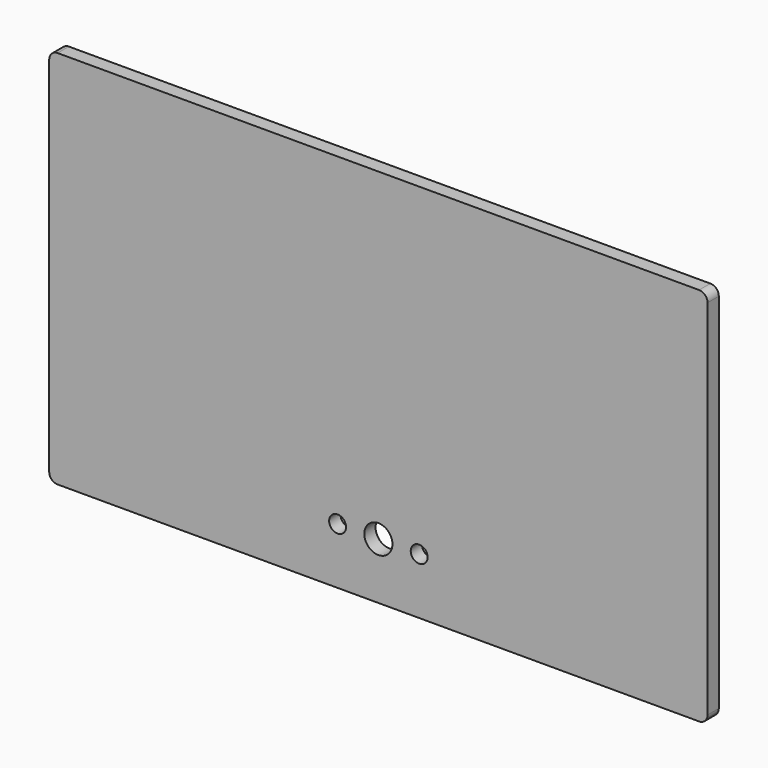
from build123d import *

# Parameters (mm, degrees)
SKETCH_W      = 234
SKETCH_H      = 135
PAD_DEPTH     = 5
FILLET_R      = 3
FILLET001_R   = 3
FILLET002_R   = 3
FILLET003_R   = 3
SKETCH001_R   = 3
SKETCH001_R_2 = 5
POCKET_DEPTH  = 5.001


with BuildPart() as part:
    # Sketch → Pad (new body)
    with BuildSketch(Plane.XZ):
        Rectangle(SKETCH_W, SKETCH_H)
    extrude(amount=PAD_DEPTH)

    # Fillet
    fillet_edges = [part.edges().sort_by_distance(p)[0] for p in [
        (117, -2.5, 67.5),
    ]]
    fillet(fillet_edges, radius=FILLET_R)

    # Fillet001
    fillet001_edges = [part.edges().sort_by_distance(p)[0] for p in [
        (117, -2.5, -67.5),
    ]]
    fillet(fillet001_edges, radius=FILLET001_R)

    # Fillet002
    fillet002_edges = [part.edges().sort_by_distance(p)[0] for p in [
        (-117, -2.5, -67.5),
    ]]
    fillet(fillet002_edges, radius=FILLET002_R)

    # Fillet003
    fillet003_edges = [part.edges().sort_by_distance(p)[0] for p in [
        (-117, -2.5, 67.5),
    ]]
    fillet(fillet003_edges, radius=FILLET003_R)

    # Sketch001 (on Face10 of Fillet003) → Pocket (cut, through all)
    with BuildSketch(Plane.XZ.offset(5)):
        with Locations((-14.5, -47.5)):
            Circle(SKETCH001_R)
        with Locations((0, -47.5)):
            Circle(SKETCH001_R_2)
        with Locations((14.5, -47.5)):
            Circle(SKETCH001_R)
    extrude(amount=-POCKET_DEPTH, mode=Mode.SUBTRACT)


solid = part.part
